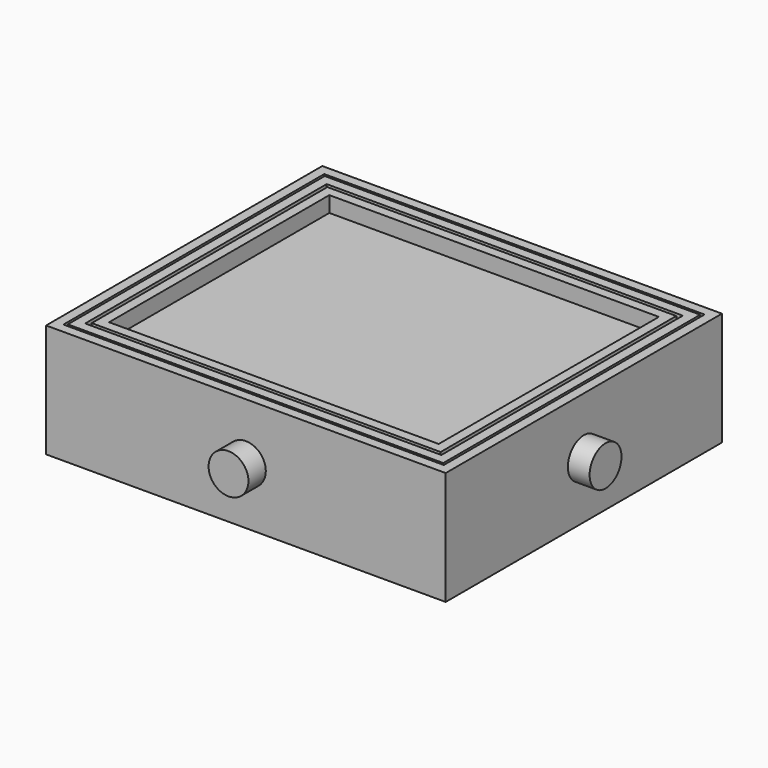
from build123d import *

# Parameters (mm, degrees)
F0_W      = 331
F0_H      = 286
F0_W_2    = 315
F0_H_2    = 270
F1_DEPTH  = 94
F2_R      = 16.5
F3_DEPTH  = 18
F4_R      = 16.5
F5_DEPTH  = 18
F6_W      = 311
F6_H      = 266
F6_W_2    = 295
F6_H_2    = 250
F6_W_3    = 289
F6_H_3    = 244
F6_W_4    = 273
F6_H_4    = 228
F7_DEPTH  = 23
F8_W      = 228
F8_H      = 3
F9_DEPTH  = 273
F10_W     = 228
F10_H     = 7
F11_DEPTH = 273


with BuildPart() as f1:
    # F0 (on Top) → F1 (new body)
    with BuildSketch(Plane.XY):
        Rectangle(F0_W, F0_H)
        Rectangle(F0_W_2, F0_H_2, mode=Mode.SUBTRACT)
    extrude(amount=F1_DEPTH)

    # F2 (on face) → F3 (join)
    with BuildSketch(Plane.YZ.offset(165.5)):
        with Locations((0, 47)):
            Circle(F2_R)
    extrude(amount=F3_DEPTH)

    # F4 (on face) → F5 (join)
    with BuildSketch(Plane.XZ.offset(143)):
        with Locations((0, 47)):
            Circle(F4_R)
    extrude(amount=F5_DEPTH)


with BuildPart() as f7:
    # F6 (on face) → F7 (new body)
    with BuildSketch(Plane.XY.offset(94)):
        Rectangle(F6_W, F6_H)
        Rectangle(F6_W_2, F6_H_2, mode=Mode.SUBTRACT)
        Rectangle(F6_W_3, F6_H_3)
        Rectangle(F6_W_4, F6_H_4, mode=Mode.SUBTRACT)
    extrude(amount=-F7_DEPTH)

    # F8 (on face) → F9 (join, through all)
    with BuildSketch(Plane.YZ.offset(-136.5)):
        with Locations((0, 72.5)):
            Rectangle(F8_W, F8_H)
    extrude(amount=F9_DEPTH)


with BuildPart() as f11:
    # F10 (on face) → F11 (new body, through all)
    with BuildSketch(Plane.YZ.offset(-136.5)):
        with Locations((0, 77.5)):
            Rectangle(F10_W, F10_H)
    extrude(amount=F11_DEPTH)


solid = Compound([f1.part, f7.part, f11.part])
